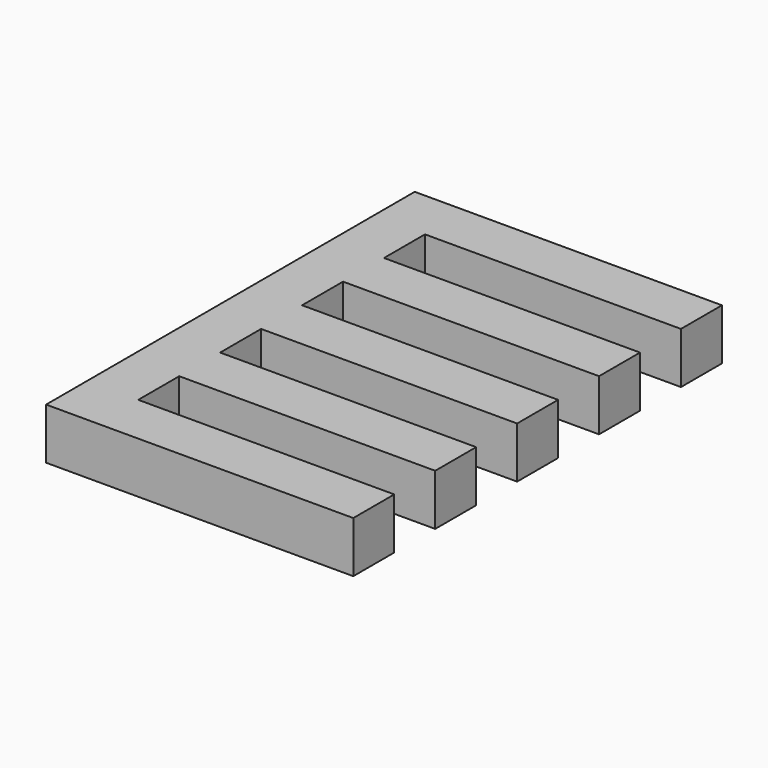
from build123d import *

# Parameters (mm, degrees)
F1_DEPTH = 10


with BuildPart() as f1:
    # F0 (on Top) → F1 (new body)
    with BuildSketch(Plane.XY):
        Polygon((39.873894, 24.078593), (-20.126106, 24.078593), (-20.126106, -65.921407), (39.873894, -65.921407), (39.873894, -55.921407), (-10.126106, -55.921407), (-10.126106, -45.921407), (39.873894, -45.921407), (39.873894, -35.921407), (-10.126106, -35.921407), (-10.126106, -25.921407), (39.873894, -25.921407), (39.873894, -15.921407), (-10.126106, -15.921407), (-10.126106, -5.921407), (39.873894, -5.921407), (39.873894, 4.078593), (-10.126106, 4.078593), (-10.126106, 14.078593), (39.873894, 14.078593), align=None)
    extrude(amount=F1_DEPTH)


solid = f1.part
